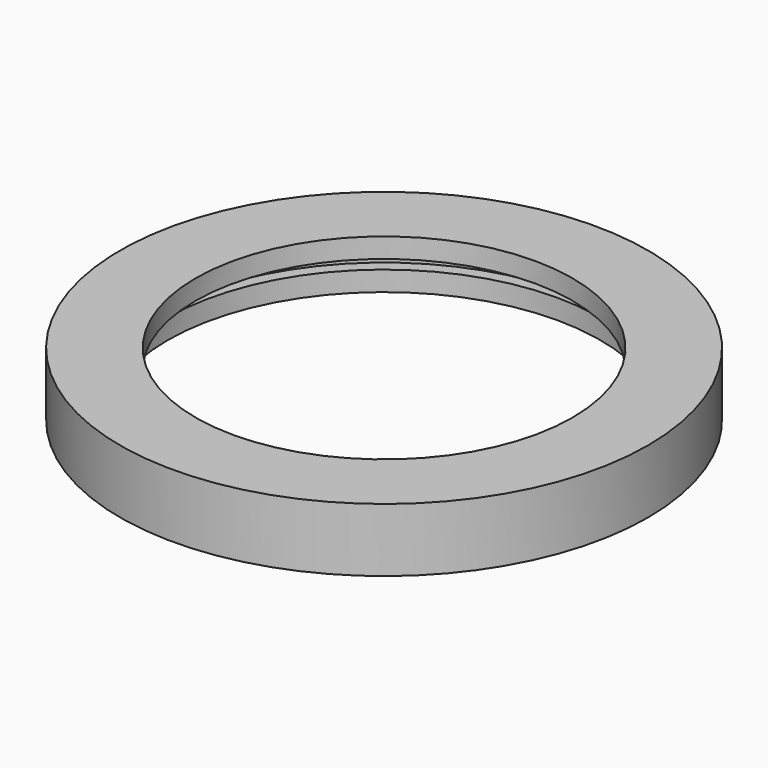
from build123d import *

# Parameters (mm, degrees)
F0_R     = 13.3
F0_R_2   = 11.5
F1_DEPTH = 2.2
F2_R     = 13.3
F2_R_2   = 11.5
F2_R_3   = 9.5
F3_DEPTH = 1
F4_R     = 11.5
F4_R_2   = 10.9
F5_DEPTH = 1


with BuildPart() as f1:
    # F0 (on Top) → F1 (new body)
    with BuildSketch(Plane.XY):
        Circle(F0_R)
        Circle(F0_R_2, mode=Mode.SUBTRACT)
    extrude(amount=F1_DEPTH)

    # F2 (on face) → F3 (join)
    with BuildSketch(Plane.XY.offset(2.2)):
        Circle(F2_R)
        Circle(F2_R_2, mode=Mode.SUBTRACT)
        Circle(F2_R_2)
        Circle(F2_R_3, mode=Mode.SUBTRACT)
    extrude(amount=F3_DEPTH)

    # F4 (on face) → F5 (join)
    with BuildSketch(Plane(origin=(0, 0, 0), x_dir=(1, 0, 0), z_dir=(0, 0, -1))):
        Circle(F4_R)
        Circle(F4_R_2, mode=Mode.SUBTRACT)
    extrude(amount=-F5_DEPTH)


solid = f1.part
